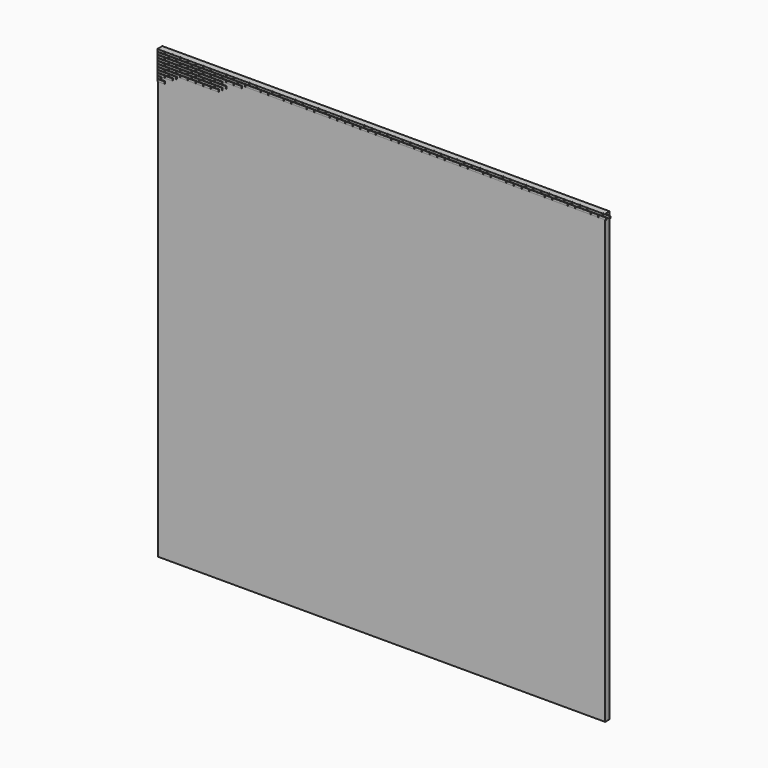
from build123d import *

# Parameters (mm, degrees)
F0_W     = 152.4
F0_H     = 152.4
F1_DEPTH = 1.905
F2_W     = 1.188307
F2_H     = 0.757076
F2_W_2   = 2.482198
F2_H_2   = 0.762
F2_W_3   = 2.499148
F2_W_4   = 2.497442
F2_W_5   = 2.491384
F2_W_6   = 2.476886
F2_W_7   = 2.477218
F2_W_8   = 2.491265
F2_W_9   = 2.482086
F2_W_10  = 2.496615
F2_W_11  = 2.490171
F2_W_12  = 2.484993
F2_W_13  = 2.478711
F2_W_14  = 2.481509
F2_W_15  = 2.484988
F2_W_16  = 2.484992
F2_W_17  = 2.4892
F2_H_3   = 0.774346
F2_W_18  = 2.482563
F2_W_19  = 2.48969
F2_W_20  = 2.496272
F2_W_21  = 2.496913
F2_W_22  = 2.495107
F2_W_23  = 2.489831
F2_W_24  = 2.47841
F2_W_25  = 2.487897
F2_W_26  = 2.479063
F2_W_27  = 2.501192
F2_W_28  = 2.489552
F2_W_29  = 2.478341
F2_W_30  = 2.481576
F2_W_31  = 2.50178
F2_W_32  = 2.488395
F2_W_33  = 2.480939
F2_W_34  = 2.49216
F2_W_35  = 2.484785
F2_W_36  = 2.499232
F2_W_37  = 2.478504
F2_W_38  = 2.494204
F2_W_39  = 2.498906
F2_W_40  = 2.492322
F2_W_41  = 2.498295
F2_W_42  = 2.500677
F2_W_43  = 2.488726
F2_W_44  = 2.48516
F2_W_45  = 2.476924
F2_W_46  = 2.500495
F2_W_47  = 2.483036
F2_W_48  = 2.480678
F2_W_49  = 2.489989
F2_W_50  = 2.496619
F2_W_51  = 2.499599
F2_W_52  = 2.488431
F2_W_53  = 2.499298
F2_W_54  = 2.49901
F2_W_55  = 2.493337
F2_W_56  = 2.494067
F2_W_57  = 2.47987
F2_W_58  = 2.478019
F2_W_59  = 2.49175
F2_W_60  = 2.49809
F2_W_61  = 2.498821
F2_W_62  = 2.485893
F2_W_63  = 2.497487
F2_W_64  = 2.487629
F2_W_65  = 2.478748
F2_W_66  = 2.491586
F2_W_67  = 2.4839
F2_W_68  = 2.500106
F2_W_69  = 2.500481
F2_W_70  = 2.488498
F2_W_71  = 2.485741
F2_W_72  = 2.484441
F2_W_73  = 2.485127
F2_W_74  = 2.488806
F2_W_75  = 2.500717
F2_W_76  = 2.476772
F2_W_77  = 2.488667
F2_W_78  = 2.499536
F2_W_79  = 2.494937
F2_W_80  = 2.497407
F2_W_81  = 2.492025
F2_W_82  = 2.484148
F2_W_83  = 2.486724
F2_W_84  = 2.478332
F2_W_85  = 2.489642
F2_W_86  = 2.494961
F2_W_87  = 2.483209
F2_W_88  = 2.48877
F2_W_89  = 2.498863
F2_W_90  = 2.493657
F2_W_91  = 2.47804
F2_W_92  = 2.499465
F2_W_93  = 2.479767
F2_W_94  = 2.487933
F2_W_95  = 2.486519
F2_W_96  = 2.486521
F2_W_97  = 2.499654
F2_W_98  = 2.482425
F2_W_99  = 2.47762
F2_W_100 = 2.495836
F2_W_101 = 2.488449
F2_W_102 = 2.487044
F2_W_103 = 2.499271
F2_W_104 = 2.488476
F2_W_105 = 2.478041
F2_W_106 = 2.486393
F2_W_107 = 2.483159
F2_W_108 = 2.491728
F2_W_109 = 2.481855
F2_W_110 = 2.494081
F2_W_111 = 2.49952
F2_W_112 = 2.497196
F2_W_113 = 2.495832
F2_W_114 = 2.490826
F2_H_4   = 0.769004
F2_H_5   = 0.769511
F2_H_6   = 0.766851
F2_H_7   = 0.757426
F2_H_8   = 0.763357
F2_H_9   = 0.76335
F3_DEPTH = 0.254


with BuildPart() as f1:
    # F0 (on Front) → F1 (new body)
    with BuildSketch(Plane.XZ):
        Rectangle(F0_W, F0_H)
    extrude(amount=F1_DEPTH)

    # F2 (on face) → F3 (join)
    with BuildSketch(Plane.XZ.offset(1.905)):
        with Locations((-75.605846, 74.942943)):
            Rectangle(F2_W, F2_H)
        Polygon((-73.7108, 76.2), (-76.2, 76.2), (-76.2, 75.438), (-74.9554, 75.438), (-73.7108, 75.438), align=None)
        with Locations((-72.343547, 75.819)):
            Rectangle(F2_W_2, F2_H_2)
        with Locations((-69.736868, 75.819)):
            Rectangle(F2_W_3, F2_H_2)
        with Locations((-67.105945, 75.819)):
            Rectangle(F2_W_4, F2_H_2)
        with Locations((-64.472437, 75.819)):
            Rectangle(F2_W_5, F2_H_2)
        with Locations((-61.85545, 75.819)):
            Rectangle(F2_W_6, F2_H_2)
        with Locations((-59.255151, 75.819)):
            Rectangle(F2_W_7, F2_H_2)
        with Locations((-56.645758, 75.819)):
            Rectangle(F2_W_8, F2_H_2)
        with Locations((-54.025758, 75.819)):
            Rectangle(F2_W_9, F2_H_2)
        with Locations((-73.627837, 74.942943)):
            Rectangle(F2_W_3, F2_H)
        with Locations((-71.010434, 74.942943)):
            Rectangle(F2_W_10, F2_H)
        with Locations((-68.402532, 74.942943)):
            Rectangle(F2_W_11, F2_H)
        with Locations((-65.796792, 74.942943)):
            Rectangle(F2_W_12, F2_H)
        with Locations((-63.185516, 74.942943)):
            Rectangle(F2_W_13, F2_H)
        with Locations((-60.588428, 74.942943)):
            Rectangle(F2_W_14, F2_H)
        with Locations((-57.977563, 74.942943)):
            Rectangle(F2_W_15, F2_H)
        with Locations((-55.368319, 74.942943)):
            Rectangle(F2_W_16, F2_H)
        with Locations((-74.9554, 74.041795)):
            Rectangle(F2_W_17, F2_H_3)
        with Locations((-72.343547, 74.041795)):
            Rectangle(F2_W_2, F2_H_3)
        with Locations((-69.736868, 74.041795)):
            Rectangle(F2_W_3, F2_H_3)
        with Locations((-67.105945, 74.041795)):
            Rectangle(F2_W_4, F2_H_3)
        with Locations((-51.417451, 75.819)):
            Rectangle(F2_W_18, F2_H_2)
        with Locations((-48.811039, 75.819)):
            Rectangle(F2_W_19, F2_H_2)
        with Locations((-46.2001, 75.819)):
            Rectangle(F2_W_20, F2_H_2)
        with Locations((-43.585956, 75.819)):
            Rectangle(F2_W_21, F2_H_2)
        with Locations((-40.962567, 75.819)):
            Rectangle(F2_W_22, F2_H_2)
        with Locations((-38.345428, 75.819)):
            Rectangle(F2_W_23, F2_H_2)
        with Locations((-35.744542, 75.819)):
            Rectangle(F2_W_24, F2_H_2)
        with Locations((-33.136304, 75.819)):
            Rectangle(F2_W_25, F2_H_2)
        with Locations((-30.528909, 75.819)):
            Rectangle(F2_W_26, F2_H_2)
        with Locations((-27.913888, 75.819)):
            Rectangle(F2_W_27, F2_H_2)
        with Locations((-25.301889, 75.819)):
            Rectangle(F2_W_28, F2_H_2)
        with Locations((-22.680551, 75.819)):
            Rectangle(F2_W_29, F2_H_2)
        with Locations((-20.081541, 75.819)):
            Rectangle(F2_W_30, F2_H_2)
        with Locations((-17.464935, 75.819)):
            Rectangle(F2_W_31, F2_H_2)
        with Locations((-14.851138, 75.819)):
            Rectangle(F2_W_32, F2_H_2)
        with Locations((-12.236339, 75.819)):
            Rectangle(F2_W_33, F2_H_2)
        with Locations((-9.626003, 75.819)):
            Rectangle(F2_W_34, F2_H_2)
        with Locations((-6.998645, 75.819)):
            Rectangle(F2_W_35, F2_H_2)
        with Locations((-4.381688, 75.819)):
            Rectangle(F2_W_36, F2_H_2)
        with Locations((-1.767183, 75.819)):
            Rectangle(F2_W_37, F2_H_2)
        with Locations((0.847782, 75.819)):
            Rectangle(F2_W_38, F2_H_2)
        with Locations((3.47857, 75.819)):
            Rectangle(F2_W_39, F2_H_2)
        with Locations((6.11677, 75.819)):
            Rectangle(F2_W_36, F2_H_2)
        with Locations((8.739391, 75.819)):
            Rectangle(F2_W_40, F2_H_2)
        with Locations((11.350929, 75.819)):
            Rectangle(F2_W_41, F2_H_2)
        with Locations((13.965939, 75.819)):
            Rectangle(F2_W_42, F2_H_2)
        with Locations((16.594234, 75.819)):
            Rectangle(F2_W_43, F2_H_2)
        with Locations((19.213332, 75.819)):
            Rectangle(F2_W_44, F2_H_2)
        with Locations((21.831302, 75.819)):
            Rectangle(F2_W_45, F2_H_2)
        with Locations((24.45202, 75.819)):
            Rectangle(F2_W_46, F2_H_2)
        with Locations((27.076086, 75.819)):
            Rectangle(F2_W_47, F2_H_2)
        with Locations((29.690165, 75.819)):
            Rectangle(F2_W_48, F2_H_2)
        with Locations((32.309161, 75.819)):
            Rectangle(F2_W_49, F2_H_2)
        with Locations((34.937096, 75.819)):
            Rectangle(F2_W_50, F2_H_2)
        with Locations((37.564447, 75.819)):
            Rectangle(F2_W_51, F2_H_2)
        with Locations((40.185706, 75.819)):
            Rectangle(F2_W_52, F2_H_2)
        with Locations((42.793896, 75.819)):
            Rectangle(F2_W_53, F2_H_2)
        with Locations((45.412818, 75.819)):
            Rectangle(F2_W_54, F2_H_2)
        with Locations((48.031039, 75.819)):
            Rectangle(F2_W_55, F2_H_2)
        with Locations((50.646886, 75.819)):
            Rectangle(F2_W_56, F2_H_2)
        with Locations((53.2702, 75.819)):
            Rectangle(F2_W_57, F2_H_2)
        with Locations((55.873956, 75.819)):
            Rectangle(F2_W_58, F2_H_2)
        with Locations((58.493555, 75.819)):
            Rectangle(F2_W_59, F2_H_2)
        with Locations((61.121348, 75.819)):
            Rectangle(F2_W_60, F2_H_2)
        with Locations((63.745528, 75.819)):
            Rectangle(F2_W_61, F2_H_2)
        with Locations((66.377427, 75.819)):
            Rectangle(F2_W_62, F2_H_2)
        with Locations((69.001961, 75.819)):
            Rectangle(F2_W_63, F2_H_2)
        with Locations((71.620084, 75.819)):
            Rectangle(F2_W_64, F2_H_2)
        with Locations((74.241966, 75.819)):
            Rectangle(F2_W_65, F2_H_2)
        with Locations((76.846104, 75.819)):
            Rectangle(F2_W_66, F2_H_2)
        with Locations((-52.749077, 74.942943)):
            Rectangle(F2_W_67, F2_H)
        with Locations((-50.13361, 74.942943)):
            Rectangle(F2_W_68, F2_H)
        with Locations((-47.50191, 74.942943)):
            Rectangle(F2_W_69, F2_H)
        with Locations((-44.883704, 74.942943)):
            Rectangle(F2_W_70, F2_H)
        with Locations((-42.27901, 74.942943)):
            Rectangle(F2_W_71, F2_H)
        with Locations((-39.67886, 74.942943)):
            Rectangle(F2_W_72, F2_H)
        with Locations((-37.06669, 74.942943)):
            Rectangle(F2_W_73, F2_H)
        with Locations((-34.459427, 74.942943)):
            Rectangle(F2_W_74, F2_H)
        with Locations((-31.842997, 74.942943)):
            Rectangle(F2_W_75, F2_H)
        with Locations((-29.230359, 74.942943)):
            Rectangle(F2_W_76, F2_H)
        with Locations((-26.620327, 74.942943)):
            Rectangle(F2_W_77, F2_H)
        with Locations((-24.007084, 74.942943)):
            Rectangle(F2_W_78, F2_H)
        with Locations((-21.385983, 74.942943)):
            Rectangle(F2_W_79, F2_H)
        with Locations((-18.769427, 74.942943)):
            Rectangle(F2_W_80, F2_H)
        with Locations((-16.14341, 74.942943)):
            Rectangle(F2_W_81, F2_H)
        with Locations((-13.523909, 74.942943)):
            Rectangle(F2_W_82, F2_H)
        with Locations((-10.909123, 74.942943)):
            Rectangle(F2_W_83, F2_H)
        with Locations((-8.287558, 74.942943)):
            Rectangle(F2_W_84, F2_H)
        with Locations((-5.673989, 74.942943)):
            Rectangle(F2_W_68, F2_H)
        with Locations((-3.064536, 74.942943)):
            Rectangle(F2_W_85, F2_H)
        with Locations((-0.439951, 74.942943)):
            Rectangle(F2_W_86, F2_H)
        with Locations((2.172953, 74.942943)):
            Rectangle(F2_W_87, F2_H)
        with Locations((4.795727, 74.942943)):
            Rectangle(F2_W_88, F2_H)
        with Locations((7.408753, 74.942943)):
            Rectangle(F2_W_89, F2_H)
        with Locations((10.02475, 74.942943)):
            Rectangle(F2_W_90, F2_H)
        with Locations((12.638392, 74.942943)):
            Rectangle(F2_W_91, F2_H)
        with Locations((15.257293, 74.942943)):
            Rectangle(F2_W_92, F2_H)
        with Locations((17.87692, 74.942943)):
            Rectangle(F2_W_93, F2_H)
        with Locations((20.487116, 74.942943)):
            Rectangle(F2_W_94, F2_H)
        with Locations((23.094894, 74.942943)):
            Rectangle(F2_W_95, F2_H)
        with Locations((25.701702, 74.942943)):
            Rectangle(F2_W_96, F2_H)
        with Locations((28.318353, 74.942943)):
            Rectangle(F2_W_97, F2_H)
        with Locations((30.931377, 74.942943)):
            Rectangle(F2_W_98, F2_H)
        with Locations((33.5296, 74.942943)):
            Rectangle(F2_W_99, F2_H)
        with Locations((36.148852, 74.942943)):
            Rectangle(F2_W_100, F2_H)
        with Locations((38.77297, 74.942943)):
            Rectangle(F2_W_101, F2_H)
        with Locations((41.390868, 74.942943)):
            Rectangle(F2_W_102, F2_H)
        with Locations((44.003765, 74.942943)):
            Rectangle(F2_W_103, F2_H)
        with Locations((46.623526, 74.942943)):
            Rectangle(F2_W_104, F2_H)
        with Locations((49.250428, 74.942943)):
            Rectangle(F2_W_101, F2_H)
        with Locations((51.869028, 74.942943)):
            Rectangle(F2_W_105, F2_H)
        with Locations((54.476186, 74.942943)):
            Rectangle(F2_W_106, F2_H)
        with Locations((57.098671, 74.942943)):
            Rectangle(F2_W_107, F2_H)
        with Locations((59.704311, 74.942943)):
            Rectangle(F2_W_108, F2_H)
        with Locations((62.309298, 74.942943)):
            Rectangle(F2_W_109, F2_H)
        with Locations((64.922213, 74.942943)):
            Rectangle(F2_W_110, F2_H)
        with Locations((67.542836, 74.942943)):
            Rectangle(F2_W_111, F2_H)
        with Locations((70.177399, 74.942943)):
            Rectangle(F2_W_112, F2_H)
        with Locations((72.80365, 74.942943)):
            Rectangle(F2_W_113, F2_H)
        with Locations((75.424906, 74.942943)):
            Rectangle(F2_W_114, F2_H)
        with Locations((-75.605846, 73.13858)):
            Rectangle(F2_W, F2_H_4)
        with Locations((-73.627837, 73.13858)):
            Rectangle(F2_W_3, F2_H_4)
        with Locations((-71.010434, 73.13858)):
            Rectangle(F2_W_10, F2_H_4)
        with Locations((-68.402532, 73.13858)):
            Rectangle(F2_W_11, F2_H_4)
        with Locations((-74.9554, 72.232723)):
            Rectangle(F2_W_17, F2_H_5)
        with Locations((-75.605846, 71.335259)):
            Rectangle(F2_W, F2_H_6)
        with Locations((-74.9554, 70.435733)):
            Rectangle(F2_W_17, F2_H_7)
        with Locations((-75.605846, 69.545806)):
            Rectangle(F2_W, F2_H_8)
        with Locations((-74.9554, 68.647019)):
            Rectangle(F2_W_17, F2_H_8)
        with Locations((-75.605846, 67.74823)):
            Rectangle(F2_W, F2_H_9)
        with Locations((-74.9554, 66.852025)):
            Rectangle(F2_W_17, F2_H_5)
        with Locations((-72.343547, 72.232723)):
            Rectangle(F2_W_2, F2_H_5)
        with Locations((-69.736868, 72.232723)):
            Rectangle(F2_W_3, F2_H_5)
        with Locations((-67.105945, 72.232723)):
            Rectangle(F2_W_4, F2_H_5)
        with Locations((-73.627837, 71.335259)):
            Rectangle(F2_W_3, F2_H_6)
        with Locations((-71.010434, 71.335259)):
            Rectangle(F2_W_10, F2_H_6)
        with Locations((-68.402532, 71.335259)):
            Rectangle(F2_W_11, F2_H_6)
        with Locations((-72.343547, 70.435733)):
            Rectangle(F2_W_2, F2_H_7)
        with Locations((-73.627837, 69.545806)):
            Rectangle(F2_W_3, F2_H_8)
        with Locations((-69.736868, 70.435733)):
            Rectangle(F2_W_3, F2_H_7)
        with Locations((-71.010434, 69.545806)):
            Rectangle(F2_W_10, F2_H_8)
        with Locations((-72.343547, 68.647019)):
            Rectangle(F2_W_2, F2_H_8)
        with Locations((-64.472437, 74.041795)):
            Rectangle(F2_W_5, F2_H_3)
        with Locations((-61.85545, 74.041795)):
            Rectangle(F2_W_6, F2_H_3)
        with Locations((-59.255151, 74.041795)):
            Rectangle(F2_W_7, F2_H_3)
        with Locations((-56.645758, 74.041795)):
            Rectangle(F2_W_8, F2_H_3)
        with Locations((-54.025758, 74.041795)):
            Rectangle(F2_W_9, F2_H_3)
        with Locations((-51.417451, 74.041795)):
            Rectangle(F2_W_18, F2_H_3)
        with Locations((-65.796792, 73.13858)):
            Rectangle(F2_W_12, F2_H_4)
        with Locations((-63.185516, 73.13858)):
            Rectangle(F2_W_13, F2_H_4)
        with Locations((-48.811039, 74.041795)):
            Rectangle(F2_W_19, F2_H_3)
        with Locations((-60.588428, 73.13858)):
            Rectangle(F2_W_14, F2_H_4)
        with Locations((-57.977563, 73.13858)):
            Rectangle(F2_W_15, F2_H_4)
        with Locations((-64.472437, 72.232723)):
            Rectangle(F2_W_5, F2_H_5)
        with Locations((-65.796792, 71.335259)):
            Rectangle(F2_W_12, F2_H_6)
        with Locations((-67.105945, 70.435733)):
            Rectangle(F2_W_4, F2_H_7)
        with Locations((-64.472437, 70.435733)):
            Rectangle(F2_W_5, F2_H_7)
        with Locations((-61.85545, 72.232723)):
            Rectangle(F2_W_6, F2_H_5)
        with Locations((-63.185516, 71.335259)):
            Rectangle(F2_W_13, F2_H_6)
        with Locations((-61.85545, 70.435733)):
            Rectangle(F2_W_6, F2_H_7)
        with Locations((-60.588428, 71.335259)):
            Rectangle(F2_W_14, F2_H_6)
        with Locations((-59.255151, 72.232723)):
            Rectangle(F2_W_7, F2_H_5)
        with Locations((-59.255151, 70.435733)):
            Rectangle(F2_W_7, F2_H_7)
        with Locations((-57.977563, 71.335259)):
            Rectangle(F2_W_15, F2_H_6)
        with Locations((-56.645758, 72.232723)):
            Rectangle(F2_W_8, F2_H_5)
        with Locations((-55.368319, 73.13858)):
            Rectangle(F2_W_16, F2_H_4)
        with Locations((-56.645758, 70.435733)):
            Rectangle(F2_W_8, F2_H_7)
        with Locations((-55.368319, 71.335259)):
            Rectangle(F2_W_16, F2_H_6)
        with Locations((-54.025758, 72.232723)):
            Rectangle(F2_W_9, F2_H_5)
    extrude(amount=F3_DEPTH)


solid = f1.part
